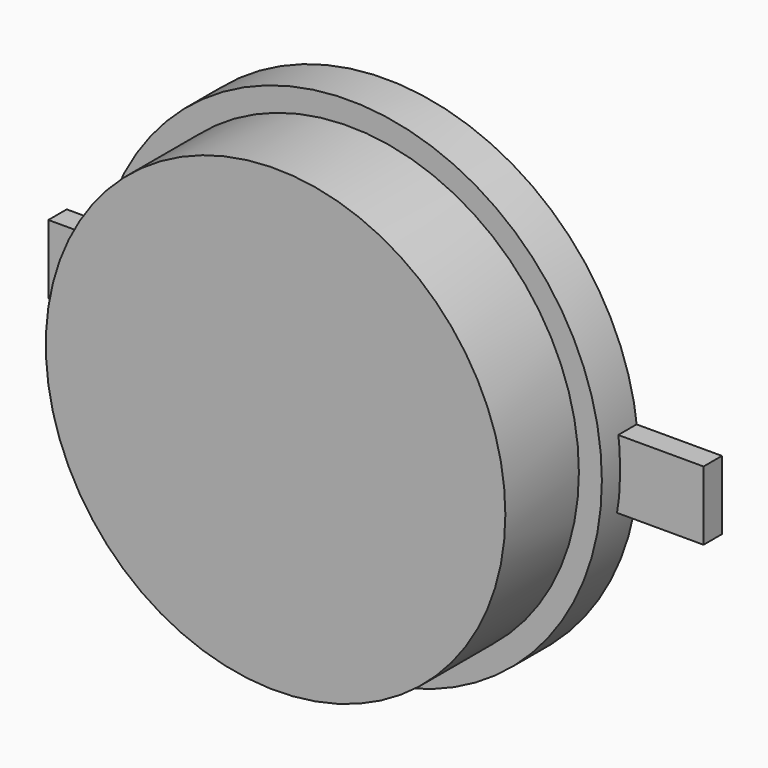
from build123d import *

# Parameters (mm, degrees)
F0_R     = 5.5
F1_DEPTH = 1
F2_R     = 5
F3_DEPTH = 2
F4_W     = 2.5
F4_H     = 1.5
F6_DEPTH = 0.5
F5_W     = 2.5
F5_H     = 1.5
F7_DEPTH = 0.5


with BuildPart() as f1:
    # F0 (on Front) → F1 (new body)
    with BuildSketch(Plane.XZ):
        Circle(F0_R)
    extrude(amount=F1_DEPTH)

    # F2 (on face) → F3 (join)
    with BuildSketch(Plane.XZ.offset(1)):
        Circle(F2_R)
    extrude(amount=F3_DEPTH)


with BuildPart() as f6:
    # F4 (on Front) → F6 (new body)
    with BuildSketch(Plane.XZ):
        with Locations((6.062192, -0.093952)):
            Rectangle(F4_W, F4_H)
    extrude(amount=F6_DEPTH)


with BuildPart() as f7:
    # F5 (on Front) → F7 (new body)
    with BuildSketch(Plane.XZ):
        with Locations((-5.694214, -0.007719)):
            Rectangle(F5_W, F5_H)
    extrude(amount=F7_DEPTH)


solid = Compound([f1.part, f6.part, f7.part])
